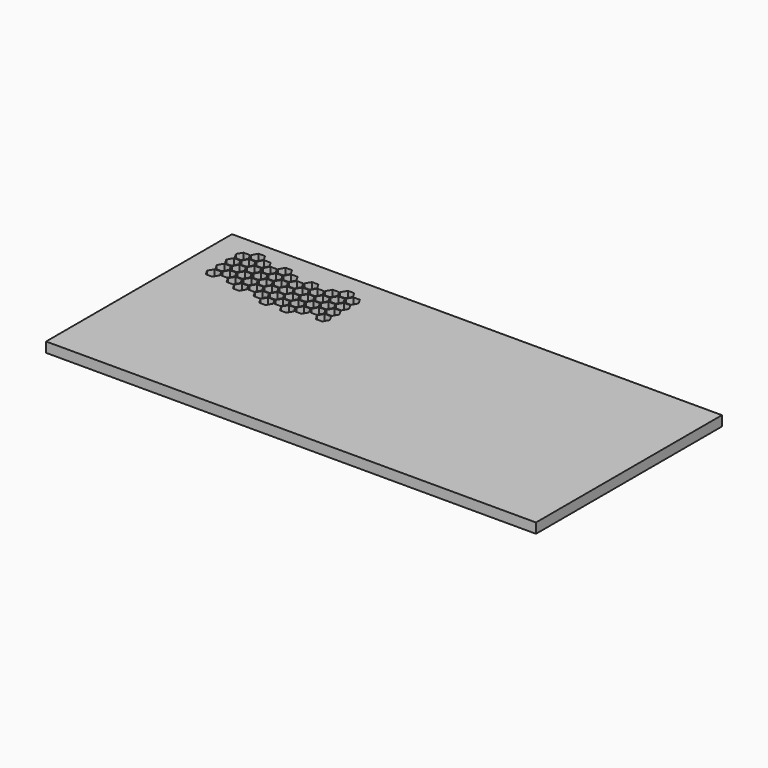
from build123d import *

# Parameters (mm, degrees)
SKETCH_W  = 489.341858
SKETCH_H  = 232.137818
PAD_DEPTH = 10


with BuildPart() as part:
    # Sketch → Pad (new body)
    with BuildSketch(Plane.XY):
        Rectangle(SKETCH_W, SKETCH_H)
        Polygon((-211.808844, 86.223056), (-208.608844, 91.765619), (-211.808844, 97.308181), (-218.208844, 97.308181), (-221.408844, 91.765619), (-218.208844, 86.223056), align=None, mode=Mode.SUBTRACT)
        Polygon((-187.90196, 91.765619), (-191.10196, 97.308181), (-197.50196, 97.308181), (-200.70196, 91.765619), (-197.50196, 86.223056), (-191.10196, 86.223056), align=None, mode=Mode.SUBTRACT)
        Polygon((-198.255402, 97.743181), (-201.455402, 103.285744), (-207.855402, 103.285744), (-211.055402, 97.743181), (-207.855402, 92.200619), (-201.455402, 92.200619), align=None, mode=Mode.SUBTRACT)
        Polygon((-211.808844, 74.267931), (-208.608844, 79.810493), (-211.808844, 85.353056), (-218.208844, 85.353056), (-221.408844, 79.810493), (-218.208844, 74.267931), align=None, mode=Mode.SUBTRACT)
        Polygon((-187.90196, 79.810493), (-191.10196, 85.353056), (-197.50196, 85.353056), (-200.70196, 79.810493), (-197.50196, 74.267931), (-191.10196, 74.267931), align=None, mode=Mode.SUBTRACT)
        Polygon((-198.255402, 85.788056), (-201.455402, 91.330619), (-207.855402, 91.330619), (-211.055402, 85.788056), (-207.855402, 80.245493), (-201.455402, 80.245493), align=None, mode=Mode.SUBTRACT)
        Polygon((-211.80603, 62.307931), (-208.60603, 67.850493), (-211.80603, 73.393056), (-218.20603, 73.393056), (-221.40603, 67.850493), (-218.20603, 62.307931), align=None, mode=Mode.SUBTRACT)
        Polygon((-187.899146, 67.850493), (-191.099146, 73.393056), (-197.499146, 73.393056), (-200.699146, 67.850493), (-197.499146, 62.307931), (-191.099146, 62.307931), align=None, mode=Mode.SUBTRACT)
        Polygon((-198.252588, 73.828056), (-201.452588, 79.370619), (-207.852588, 79.370619), (-211.052588, 73.828056), (-207.852588, 68.285493), (-201.452588, 68.285493), align=None, mode=Mode.SUBTRACT)
        Polygon((-211.80603, 50.352806), (-208.60603, 55.895368), (-211.80603, 61.437931), (-218.20603, 61.437931), (-221.40603, 55.895368), (-218.20603, 50.352806), align=None, mode=Mode.SUBTRACT)
        Polygon((-187.899146, 55.895368), (-191.099146, 61.437931), (-197.499146, 61.437931), (-200.699146, 55.895368), (-197.499146, 50.352806), (-191.099146, 50.352806), align=None, mode=Mode.SUBTRACT)
        Polygon((-198.252588, 61.872931), (-201.452588, 67.415493), (-207.852588, 67.415493), (-211.052588, 61.872931), (-207.852588, 56.330368), (-201.452588, 56.330368), align=None, mode=Mode.SUBTRACT)
        Polygon((-180.462844, 80.759465), (-177.262844, 86.302028), (-180.462844, 91.844591), (-186.862844, 91.844591), (-190.062844, 86.302028), (-186.862844, 80.759465), align=None, mode=Mode.SUBTRACT)
        Polygon((-156.55596, 86.302028), (-159.75596, 91.844591), (-166.15596, 91.844591), (-169.35596, 86.302028), (-166.15596, 80.759465), (-159.75596, 80.759465), align=None, mode=Mode.SUBTRACT)
        Polygon((-166.909402, 92.279591), (-170.109402, 97.822153), (-176.509402, 97.822153), (-179.709402, 92.279591), (-176.509402, 86.737028), (-170.109402, 86.737028), align=None, mode=Mode.SUBTRACT)
        Polygon((-180.462844, 68.80434), (-177.262844, 74.346903), (-180.462844, 79.889465), (-186.862844, 79.889465), (-190.062844, 74.346903), (-186.862844, 68.80434), align=None, mode=Mode.SUBTRACT)
        Polygon((-156.55596, 74.346903), (-159.75596, 79.889465), (-166.15596, 79.889465), (-169.35596, 74.346903), (-166.15596, 68.80434), (-159.75596, 68.80434), align=None, mode=Mode.SUBTRACT)
        Polygon((-166.909402, 80.324465), (-170.109402, 85.867028), (-176.509402, 85.867028), (-179.709402, 80.324465), (-176.509402, 74.781903), (-170.109402, 74.781903), align=None, mode=Mode.SUBTRACT)
        Polygon((-180.46003, 56.84434), (-177.26003, 62.386903), (-180.46003, 67.929465), (-186.86003, 67.929465), (-190.06003, 62.386903), (-186.86003, 56.84434), align=None, mode=Mode.SUBTRACT)
        Polygon((-156.553146, 62.386903), (-159.753146, 67.929465), (-166.153146, 67.929465), (-169.353146, 62.386903), (-166.153146, 56.84434), (-159.753146, 56.84434), align=None, mode=Mode.SUBTRACT)
        Polygon((-166.906588, 68.364465), (-170.106588, 73.907028), (-176.506588, 73.907028), (-179.706588, 68.364465), (-176.506588, 62.821903), (-170.106588, 62.821903), align=None, mode=Mode.SUBTRACT)
        Polygon((-180.46003, 44.889215), (-177.26003, 50.431778), (-180.46003, 55.97434), (-186.86003, 55.97434), (-190.06003, 50.431778), (-186.86003, 44.889215), align=None, mode=Mode.SUBTRACT)
        Polygon((-156.553146, 50.431778), (-159.753146, 55.97434), (-166.153146, 55.97434), (-169.353146, 50.431778), (-166.153146, 44.889215), (-159.753146, 44.889215), align=None, mode=Mode.SUBTRACT)
        Polygon((-166.906588, 56.40934), (-170.106588, 61.951903), (-176.506588, 61.951903), (-179.706588, 56.40934), (-176.506588, 50.866778), (-170.106588, 50.866778), align=None, mode=Mode.SUBTRACT)
        Polygon((-149.396889, 74.781903), (-146.196889, 80.324465), (-149.396889, 85.867028), (-155.796889, 85.867028), (-158.996889, 80.324465), (-155.796889, 74.781903), align=None, mode=Mode.SUBTRACT)
        Polygon((-125.490005, 80.324465), (-128.690005, 85.867028), (-135.090005, 85.867028), (-138.290005, 80.324465), (-135.090005, 74.781903), (-128.690005, 74.781903), align=None, mode=Mode.SUBTRACT)
        Polygon((-135.843447, 86.302028), (-139.043447, 91.844591), (-145.443447, 91.844591), (-148.643447, 86.302028), (-145.443447, 80.759465), (-139.043447, 80.759465), align=None, mode=Mode.SUBTRACT)
        Polygon((-149.396889, 62.826778), (-146.196889, 68.36934), (-149.396889, 73.911903), (-155.796889, 73.911903), (-158.996889, 68.36934), (-155.796889, 62.826778), align=None, mode=Mode.SUBTRACT)
        Polygon((-125.490005, 68.36934), (-128.690005, 73.911903), (-135.090005, 73.911903), (-138.290005, 68.36934), (-135.090005, 62.826778), (-128.690005, 62.826778), align=None, mode=Mode.SUBTRACT)
        Polygon((-135.843447, 74.346903), (-139.043447, 79.889465), (-145.443447, 79.889465), (-148.643447, 74.346903), (-145.443447, 68.80434), (-139.043447, 68.80434), align=None, mode=Mode.SUBTRACT)
        Polygon((-149.394075, 50.866778), (-146.194075, 56.40934), (-149.394075, 61.951903), (-155.794075, 61.951903), (-158.994075, 56.40934), (-155.794075, 50.866778), align=None, mode=Mode.SUBTRACT)
        Polygon((-125.487191, 56.40934), (-128.687191, 61.951903), (-135.087191, 61.951903), (-138.287191, 56.40934), (-135.087191, 50.866778), (-128.687191, 50.866778), align=None, mode=Mode.SUBTRACT)
        Polygon((-135.840633, 62.386903), (-139.040633, 67.929465), (-145.440633, 67.929465), (-148.640633, 62.386903), (-145.440633, 56.84434), (-139.040633, 56.84434), align=None, mode=Mode.SUBTRACT)
        Polygon((-149.394075, 38.911653), (-146.194075, 44.454215), (-149.394075, 49.996778), (-155.794075, 49.996778), (-158.994075, 44.454215), (-155.794075, 38.911653), align=None, mode=Mode.SUBTRACT)
        Polygon((-125.487191, 44.454215), (-128.687191, 49.996778), (-135.087191, 49.996778), (-138.287191, 44.454215), (-135.087191, 38.911653), (-128.687191, 38.911653), align=None, mode=Mode.SUBTRACT)
        Polygon((-135.840633, 50.431778), (-139.040633, 55.97434), (-145.440633, 55.97434), (-148.640633, 50.431778), (-145.440633, 44.889215), (-139.040633, 44.889215), align=None, mode=Mode.SUBTRACT)
        Polygon((-118.330935, 80.759465), (-115.130935, 86.302028), (-118.330935, 91.844591), (-124.730935, 91.844591), (-127.930935, 86.302028), (-124.730935, 80.759465), align=None, mode=Mode.SUBTRACT)
        Polygon((-94.42405, 86.302028), (-97.62405, 91.844591), (-104.02405, 91.844591), (-107.22405, 86.302028), (-104.02405, 80.759465), (-97.62405, 80.759465), align=None, mode=Mode.SUBTRACT)
        Polygon((-104.777492, 92.279591), (-107.977492, 97.822153), (-114.377492, 97.822153), (-117.577492, 92.279591), (-114.377492, 86.737028), (-107.977492, 86.737028), align=None, mode=Mode.SUBTRACT)
        Polygon((-118.330935, 68.80434), (-115.130935, 74.346903), (-118.330935, 79.889465), (-124.730935, 79.889465), (-127.930935, 74.346903), (-124.730935, 68.80434), align=None, mode=Mode.SUBTRACT)
        Polygon((-94.42405, 74.346903), (-97.62405, 79.889465), (-104.02405, 79.889465), (-107.22405, 74.346903), (-104.02405, 68.80434), (-97.62405, 68.80434), align=None, mode=Mode.SUBTRACT)
        Polygon((-104.777492, 80.324465), (-107.977492, 85.867028), (-114.377492, 85.867028), (-117.577492, 80.324465), (-114.377492, 74.781903), (-107.977492, 74.781903), align=None, mode=Mode.SUBTRACT)
        Polygon((-118.32812, 56.84434), (-115.12812, 62.386903), (-118.32812, 67.929465), (-124.72812, 67.929465), (-127.92812, 62.386903), (-124.72812, 56.84434), align=None, mode=Mode.SUBTRACT)
        Polygon((-94.421236, 62.386903), (-97.621236, 67.929465), (-104.021236, 67.929465), (-107.221236, 62.386903), (-104.021236, 56.84434), (-97.621236, 56.84434), align=None, mode=Mode.SUBTRACT)
        Polygon((-104.774678, 68.364465), (-107.974678, 73.907028), (-114.374678, 73.907028), (-117.574678, 68.364465), (-114.374678, 62.821903), (-107.974678, 62.821903), align=None, mode=Mode.SUBTRACT)
        Polygon((-118.32812, 44.889215), (-115.12812, 50.431778), (-118.32812, 55.97434), (-124.72812, 55.97434), (-127.92812, 50.431778), (-124.72812, 44.889215), align=None, mode=Mode.SUBTRACT)
        Polygon((-94.421236, 50.431778), (-97.621236, 55.97434), (-104.021236, 55.97434), (-107.221236, 50.431778), (-104.021236, 44.889215), (-97.621236, 44.889215), align=None, mode=Mode.SUBTRACT)
        Polygon((-104.774678, 56.40934), (-107.974678, 61.951903), (-114.374678, 61.951903), (-117.574678, 56.40934), (-114.374678, 50.866778), (-107.974678, 50.866778), align=None, mode=Mode.SUBTRACT)
    extrude(amount=PAD_DEPTH)


solid = part.part
